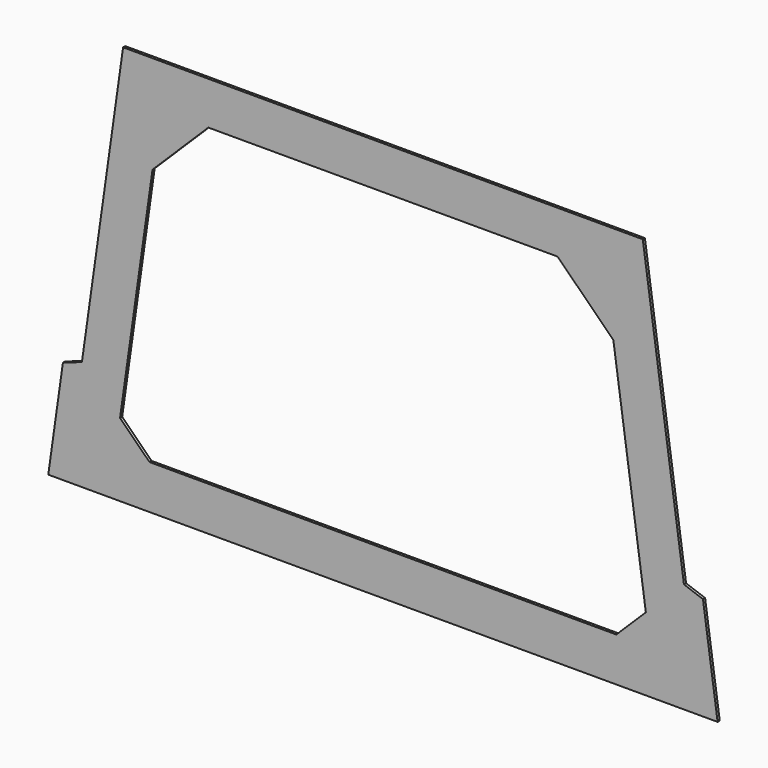
from build123d import *

# Parameters (mm, degrees)
F1_DEPTH = 4.7625


with BuildPart() as f1:
    # F0 (on Front) → F1 (new body)
    with BuildSketch(Plane.XZ):
        Polygon((476.811566, -269.26021), (450.817892, -85.837285), (417.04529, -73.803527), (343.957019, 441.93979), (-578.807303, 441.93979), (-651.8956, -73.803527), (-685.668176, -85.837285), (-711.661851, -269.26021), align=None)
        Polygon((-531.912477, -191.149596), (-584.229085, -139.392219), (-526.537202, 267.707271), (-427.445452, 365.73979), (192.595167, 365.73979), (291.686917, 267.707271), (349.378801, -139.392219), (297.062192, -191.149596), align=None, mode=Mode.SUBTRACT)
    extrude(amount=F1_DEPTH)


solid = f1.part
